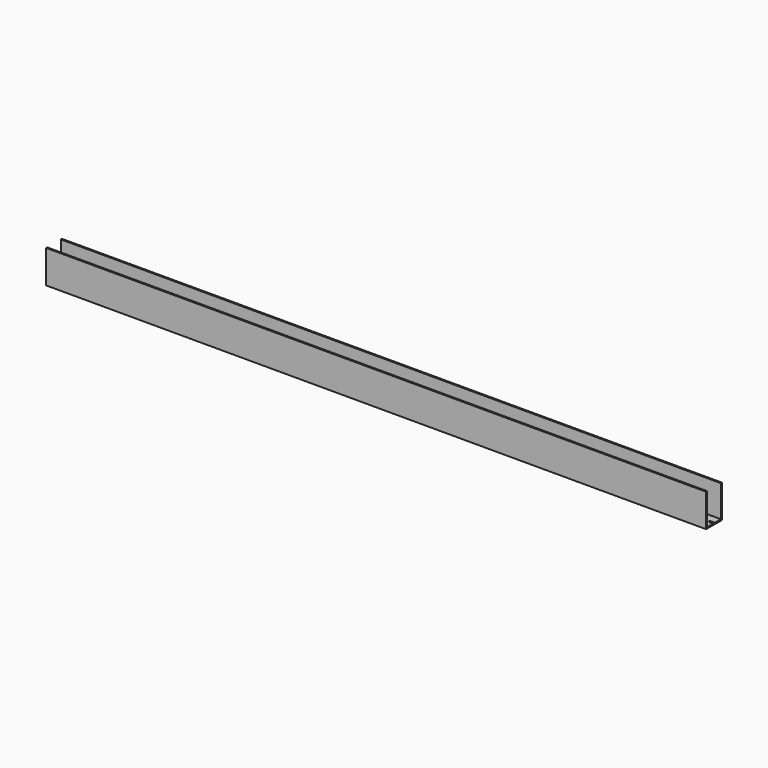
from build123d import *

# Parameters (mm, degrees)
F0_W     = 2000
F0_H     = 60
F1_DEPTH = 100
F2_W     = 2000
F2_H     = 52
F3_DEPTH = 96
F5_DEPTH = 4.001


with BuildPart() as f1:
    # F0 (on Top) → F1 (new body)
    with BuildSketch(Plane.XY):
        with Locations((1000, 30)):
            Rectangle(F0_W, F0_H)
    extrude(amount=F1_DEPTH)

    # F2 (on face) → F3 (cut)
    with BuildSketch(Plane.XY.offset(100)):
        with Locations((1000, 30)):
            Rectangle(F2_W, F2_H)
    extrude(amount=-F3_DEPTH, mode=Mode.SUBTRACT)

    # F4 (on face) → F5 (cut, through all)
    with BuildSketch(Plane.XY.offset(4)):
        with BuildLine():
            ThreePointArc((38.25, 33.25), (35, 30), (38.25, 26.75))
            Line((38.25, 26.75), (45.75, 26.75))
            ThreePointArc((45.75, 26.75), (49, 30), (45.75, 33.25))
            Line((45.75, 33.25), (38.25, 33.25))
        make_face()
        with BuildLine():
            ThreePointArc((88.25, 33.25), (85, 30), (88.25, 26.75))
            Line((88.25, 26.75), (95.75, 26.75))
            ThreePointArc((95.75, 26.75), (99, 30), (95.75, 33.25))
            Line((95.75, 33.25), (88.25, 33.25))
        make_face()
        with BuildLine():
            ThreePointArc((138.25, 33.25), (135, 30), (138.25, 26.75))
            Line((138.25, 26.75), (145.75, 26.75))
            ThreePointArc((145.75, 26.75), (149, 30), (145.75, 33.25))
            Line((145.75, 33.25), (138.25, 33.25))
        make_face()
        with BuildLine():
            ThreePointArc((188.25, 33.25), (185, 30), (188.25, 26.75))
            Line((188.25, 26.75), (195.75, 26.75))
            ThreePointArc((195.75, 26.75), (199, 30), (195.75, 33.25))
            Line((195.75, 33.25), (188.25, 33.25))
        make_face()
        with BuildLine():
            ThreePointArc((238.25, 33.25), (235, 30), (238.25, 26.75))
            Line((238.25, 26.75), (245.75, 26.75))
            ThreePointArc((245.75, 26.75), (249, 30), (245.75, 33.25))
            Line((245.75, 33.25), (238.25, 33.25))
        make_face()
        with BuildLine():
            ThreePointArc((288.25, 33.25), (285, 30), (288.25, 26.75))
            Line((288.25, 26.75), (295.75, 26.75))
            ThreePointArc((295.75, 26.75), (299, 30), (295.75, 33.25))
            Line((295.75, 33.25), (288.25, 33.25))
        make_face()
        with BuildLine():
            ThreePointArc((338.25, 33.25), (335, 30), (338.25, 26.75))
            Line((338.25, 26.75), (345.75, 26.75))
            ThreePointArc((345.75, 26.75), (349, 30), (345.75, 33.25))
            Line((345.75, 33.25), (338.25, 33.25))
        make_face()
        with BuildLine():
            ThreePointArc((388.25, 33.25), (385, 30), (388.25, 26.75))
            Line((388.25, 26.75), (395.75, 26.75))
            ThreePointArc((395.75, 26.75), (399, 30), (395.75, 33.25))
            Line((395.75, 33.25), (388.25, 33.25))
        make_face()
        with BuildLine():
            ThreePointArc((438.25, 33.25), (435, 30), (438.25, 26.75))
            Line((438.25, 26.75), (445.75, 26.75))
            ThreePointArc((445.75, 26.75), (449, 30), (445.75, 33.25))
            Line((445.75, 33.25), (438.25, 33.25))
        make_face()
        with BuildLine():
            ThreePointArc((488.25, 33.25), (485, 30), (488.25, 26.75))
            Line((488.25, 26.75), (495.75, 26.75))
            ThreePointArc((495.75, 26.75), (499, 30), (495.75, 33.25))
            Line((495.75, 33.25), (488.25, 33.25))
        make_face()
        with BuildLine():
            ThreePointArc((538.25, 33.25), (535, 30), (538.25, 26.75))
            Line((538.25, 26.75), (545.75, 26.75))
            ThreePointArc((545.75, 26.75), (549, 30), (545.75, 33.25))
            Line((545.75, 33.25), (538.25, 33.25))
        make_face()
        with BuildLine():
            ThreePointArc((588.25, 33.25), (585, 30), (588.25, 26.75))
            Line((588.25, 26.75), (595.75, 26.75))
            ThreePointArc((595.75, 26.75), (599, 30), (595.75, 33.25))
            Line((595.75, 33.25), (588.25, 33.25))
        make_face()
        with BuildLine():
            ThreePointArc((638.25, 33.25), (635, 30), (638.25, 26.75))
            Line((638.25, 26.75), (645.75, 26.75))
            ThreePointArc((645.75, 26.75), (649, 30), (645.75, 33.25))
            Line((645.75, 33.25), (638.25, 33.25))
        make_face()
        with BuildLine():
            ThreePointArc((688.25, 33.25), (685, 30), (688.25, 26.75))
            Line((688.25, 26.75), (695.75, 26.75))
            ThreePointArc((695.75, 26.75), (699, 30), (695.75, 33.25))
            Line((695.75, 33.25), (688.25, 33.25))
        make_face()
        with BuildLine():
            ThreePointArc((738.25, 33.25), (735, 30), (738.25, 26.75))
            Line((738.25, 26.75), (745.75, 26.75))
            ThreePointArc((745.75, 26.75), (749, 30), (745.75, 33.25))
            Line((745.75, 33.25), (738.25, 33.25))
        make_face()
        with BuildLine():
            ThreePointArc((788.25, 33.25), (785, 30), (788.25, 26.75))
            Line((788.25, 26.75), (795.75, 26.75))
            ThreePointArc((795.75, 26.75), (799, 30), (795.75, 33.25))
            Line((795.75, 33.25), (788.25, 33.25))
        make_face()
        with BuildLine():
            ThreePointArc((838.25, 33.25), (835, 30), (838.25, 26.75))
            Line((838.25, 26.75), (845.75, 26.75))
            ThreePointArc((845.75, 26.75), (849, 30), (845.75, 33.25))
            Line((845.75, 33.25), (838.25, 33.25))
        make_face()
        with BuildLine():
            ThreePointArc((888.25, 33.25), (885, 30), (888.25, 26.75))
            Line((888.25, 26.75), (895.75, 26.75))
            ThreePointArc((895.75, 26.75), (899, 30), (895.75, 33.25))
            Line((895.75, 33.25), (888.25, 33.25))
        make_face()
        with BuildLine():
            ThreePointArc((938.25, 33.25), (935, 30), (938.25, 26.75))
            Line((938.25, 26.75), (945.75, 26.75))
            ThreePointArc((945.75, 26.75), (949, 30), (945.75, 33.25))
            Line((945.75, 33.25), (938.25, 33.25))
        make_face()
        with BuildLine():
            ThreePointArc((988.25, 33.25), (985, 30), (988.25, 26.75))
            Line((988.25, 26.75), (995.75, 26.75))
            ThreePointArc((995.75, 26.75), (999, 30), (995.75, 33.25))
            Line((995.75, 33.25), (988.25, 33.25))
        make_face()
        with BuildLine():
            ThreePointArc((1038.25, 33.25), (1035, 30), (1038.25, 26.75))
            Line((1038.25, 26.75), (1045.75, 26.75))
            ThreePointArc((1045.75, 26.75), (1049, 30), (1045.75, 33.25))
            Line((1045.75, 33.25), (1038.25, 33.25))
        make_face()
        with BuildLine():
            ThreePointArc((1088.25, 33.25), (1085, 30), (1088.25, 26.75))
            Line((1088.25, 26.75), (1095.75, 26.75))
            ThreePointArc((1095.75, 26.75), (1099, 30), (1095.75, 33.25))
            Line((1095.75, 33.25), (1088.25, 33.25))
        make_face()
        with BuildLine():
            ThreePointArc((1138.25, 33.25), (1135, 30), (1138.25, 26.75))
            Line((1138.25, 26.75), (1145.75, 26.75))
            ThreePointArc((1145.75, 26.75), (1149, 30), (1145.75, 33.25))
            Line((1145.75, 33.25), (1138.25, 33.25))
        make_face()
        with BuildLine():
            ThreePointArc((1188.25, 33.25), (1185, 30), (1188.25, 26.75))
            Line((1188.25, 26.75), (1195.75, 26.75))
            ThreePointArc((1195.75, 26.75), (1199, 30), (1195.75, 33.25))
            Line((1195.75, 33.25), (1188.25, 33.25))
        make_face()
        with BuildLine():
            ThreePointArc((1238.25, 33.25), (1235, 30), (1238.25, 26.75))
            Line((1238.25, 26.75), (1245.75, 26.75))
            ThreePointArc((1245.75, 26.75), (1249, 30), (1245.75, 33.25))
            Line((1245.75, 33.25), (1238.25, 33.25))
        make_face()
        with BuildLine():
            ThreePointArc((1288.25, 33.25), (1285, 30), (1288.25, 26.75))
            Line((1288.25, 26.75), (1295.75, 26.75))
            ThreePointArc((1295.75, 26.75), (1299, 30), (1295.75, 33.25))
            Line((1295.75, 33.25), (1288.25, 33.25))
        make_face()
        with BuildLine():
            ThreePointArc((1338.25, 33.25), (1335, 30), (1338.25, 26.75))
            Line((1338.25, 26.75), (1345.75, 26.75))
            ThreePointArc((1345.75, 26.75), (1349, 30), (1345.75, 33.25))
            Line((1345.75, 33.25), (1338.25, 33.25))
        make_face()
        with BuildLine():
            ThreePointArc((1388.25, 33.25), (1385, 30), (1388.25, 26.75))
            Line((1388.25, 26.75), (1395.75, 26.75))
            ThreePointArc((1395.75, 26.75), (1399, 30), (1395.75, 33.25))
            Line((1395.75, 33.25), (1388.25, 33.25))
        make_face()
        with BuildLine():
            ThreePointArc((1438.25, 33.25), (1435, 30), (1438.25, 26.75))
            Line((1438.25, 26.75), (1445.75, 26.75))
            ThreePointArc((1445.75, 26.75), (1449, 30), (1445.75, 33.25))
            Line((1445.75, 33.25), (1438.25, 33.25))
        make_face()
        with BuildLine():
            ThreePointArc((1488.25, 33.25), (1485, 30), (1488.25, 26.75))
            Line((1488.25, 26.75), (1495.75, 26.75))
            ThreePointArc((1495.75, 26.75), (1499, 30), (1495.75, 33.25))
            Line((1495.75, 33.25), (1488.25, 33.25))
        make_face()
        with BuildLine():
            ThreePointArc((1538.25, 33.25), (1535, 30), (1538.25, 26.75))
            Line((1538.25, 26.75), (1545.75, 26.75))
            ThreePointArc((1545.75, 26.75), (1549, 30), (1545.75, 33.25))
            Line((1545.75, 33.25), (1538.25, 33.25))
        make_face()
        with BuildLine():
            ThreePointArc((1588.25, 33.25), (1585, 30), (1588.25, 26.75))
            Line((1588.25, 26.75), (1595.75, 26.75))
            ThreePointArc((1595.75, 26.75), (1599, 30), (1595.75, 33.25))
            Line((1595.75, 33.25), (1588.25, 33.25))
        make_face()
        with BuildLine():
            ThreePointArc((1638.25, 33.25), (1635, 30), (1638.25, 26.75))
            Line((1638.25, 26.75), (1645.75, 26.75))
            ThreePointArc((1645.75, 26.75), (1649, 30), (1645.75, 33.25))
            Line((1645.75, 33.25), (1638.25, 33.25))
        make_face()
        with BuildLine():
            ThreePointArc((1688.25, 33.25), (1685, 30), (1688.25, 26.75))
            Line((1688.25, 26.75), (1695.75, 26.75))
            ThreePointArc((1695.75, 26.75), (1699, 30), (1695.75, 33.25))
            Line((1695.75, 33.25), (1688.25, 33.25))
        make_face()
        with BuildLine():
            ThreePointArc((1738.25, 33.25), (1735, 30), (1738.25, 26.75))
            Line((1738.25, 26.75), (1745.75, 26.75))
            ThreePointArc((1745.75, 26.75), (1749, 30), (1745.75, 33.25))
            Line((1745.75, 33.25), (1738.25, 33.25))
        make_face()
        with BuildLine():
            ThreePointArc((1788.25, 33.25), (1785, 30), (1788.25, 26.75))
            Line((1788.25, 26.75), (1795.75, 26.75))
            ThreePointArc((1795.75, 26.75), (1799, 30), (1795.75, 33.25))
            Line((1795.75, 33.25), (1788.25, 33.25))
        make_face()
        with BuildLine():
            ThreePointArc((1838.25, 33.25), (1835, 30), (1838.25, 26.75))
            Line((1838.25, 26.75), (1845.75, 26.75))
            ThreePointArc((1845.75, 26.75), (1849, 30), (1845.75, 33.25))
            Line((1845.75, 33.25), (1838.25, 33.25))
        make_face()
        with BuildLine():
            ThreePointArc((1888.25, 33.25), (1885, 30), (1888.25, 26.75))
            Line((1888.25, 26.75), (1895.75, 26.75))
            ThreePointArc((1895.75, 26.75), (1899, 30), (1895.75, 33.25))
            Line((1895.75, 33.25), (1888.25, 33.25))
        make_face()
        with BuildLine():
            ThreePointArc((1938.25, 33.25), (1935, 30), (1938.25, 26.75))
            Line((1938.25, 26.75), (1945.75, 26.75))
            ThreePointArc((1945.75, 26.75), (1949, 30), (1945.75, 33.25))
            Line((1945.75, 33.25), (1938.25, 33.25))
        make_face()
        with BuildLine():
            ThreePointArc((1988.25, 33.25), (1985, 30), (1988.25, 26.75))
            Line((1988.25, 26.75), (1995.75, 26.75))
            ThreePointArc((1995.75, 26.75), (1999, 30), (1995.75, 33.25))
            Line((1995.75, 33.25), (1988.25, 33.25))
        make_face()
    extrude(amount=-F5_DEPTH, mode=Mode.SUBTRACT)


solid = f1.part
